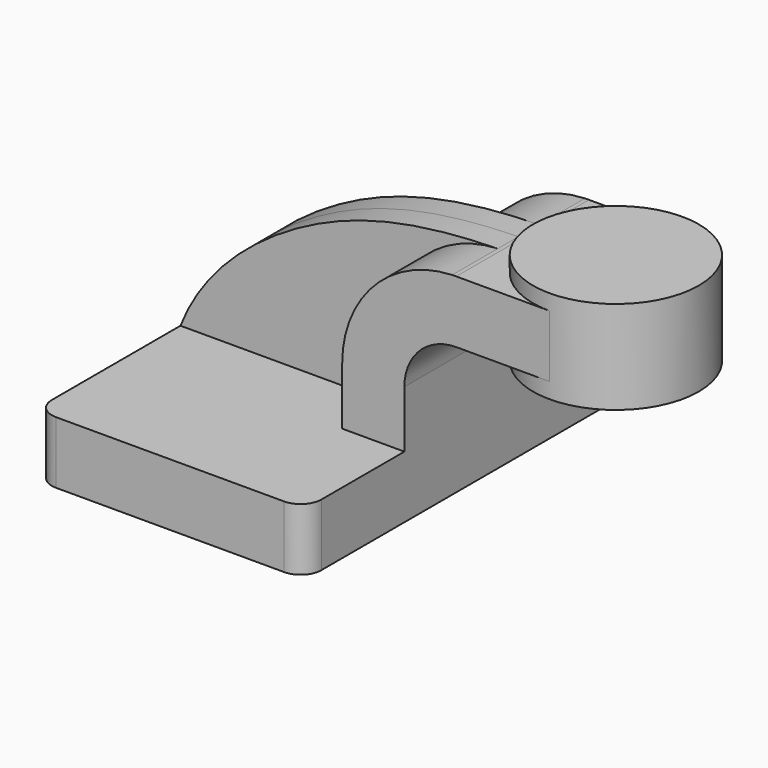
from build123d import *

# Parameters (mm, degrees)
F1_DEPTH = 63.5
F0_W     = 25.4
F0_H     = 19.05
F2_DEPTH = 25.4
F3_DEPTH = 7.9375
F5_R     = 6.35


with BuildPart() as f1:
    # F0 (on Front) → F1 (new body, symmetric)
    with BuildSketch(Plane.XZ):
        Polygon((-41.275, -9.525), (41.275, -9.525), (41.275, 9.525), (22.225, 9.525), (-41.275, 9.525), align=None)
    extrude(amount=F1_DEPTH, both=True)

    # F0 (on Front) → F2 (join, symmetric)
    with BuildSketch(Plane.XZ):
        with BuildLine():
            Line((22.225, 9.525), (41.275, 9.525))
            Line((41.275, 9.525), (41.275, 27.0002))
            ThreePointArc((41.275, 27.0002), (45.9246798487, 38.2255201513), (57.15, 42.8752))
            Line((57.15, 42.8752), (60.325, 42.8752))
            Line((60.325, 42.8752), (60.325, 61.9252))
            Line((60.325, 61.9252), (57.15, 61.9252))
            add(Edge.make_bspline(
                [(55.9110722604, 61.9032182514), (56.3221199082, 61.9115139104), (56.7350875731, 61.918839648), (57.15, 61.9252)],
                knots=[0.9917875847, 0.9917875847, 0.9917875847, 0.9917875847, 1, 1, 1, 1], degree=3))
            ThreePointArc((55.9110722604, 61.9032182514), (32.020085791, 51.2539221236), (22.225, 27.0002))
            Line((22.225, 27.0002), (22.225, 9.525))
        make_face()
        with Locations((73.025, 52.4002)):
            Rectangle(F0_W, F0_H)
    extrude(amount=F2_DEPTH, both=True)

    # F0 (on Front) → F3 (join, symmetric)
    with BuildSketch(Plane.XZ):
        with BuildLine():
            add(Edge.make_bspline(
                [(-41.275, 9.525), (-34.6972605346, 26.3916922465), (-4.9672037522, 53.0346876141), (30.1310822964, 61.3829330558), (55.9110722604, 61.9032182514)],
                knots=[0, 0, 0, 0, 0.4767232487, 0.9917875847, 0.9917875847, 0.9917875847, 0.9917875847], degree=3))
            Line((-41.275, 9.525), (22.225, 9.525))
            Line((22.225, 9.525), (22.225, 27.0002))
            ThreePointArc((22.225, 27.0002), (32.020085791, 51.2539221236), (55.9110722604, 61.9032182514))
        make_face()
    extrude(amount=F3_DEPTH, both=True)

    # F0 (on Front) → F4 (revolve)
    with BuildSketch(Plane.XZ):
        Polygon((85.725, 61.9252), (85.725, 42.8752), (85.725, 38.1), (111.125, 38.1), (111.125, 66.675), (85.725, 66.675), align=None)
    revolve(axis=Axis((85.725, 0, 52.3875), (0, 0, -1)))

    # F5
    f5_edges = [f1.edges().sort_by_distance(p)[0] for p in [
        (-41.275, -63.5, 0),
        (41.275, -63.5, 0),
        (41.275, 63.5, 0),
        (-41.275, 63.5, 0),
    ]]
    fillet(f5_edges, radius=F5_R)


solid = f1.part
